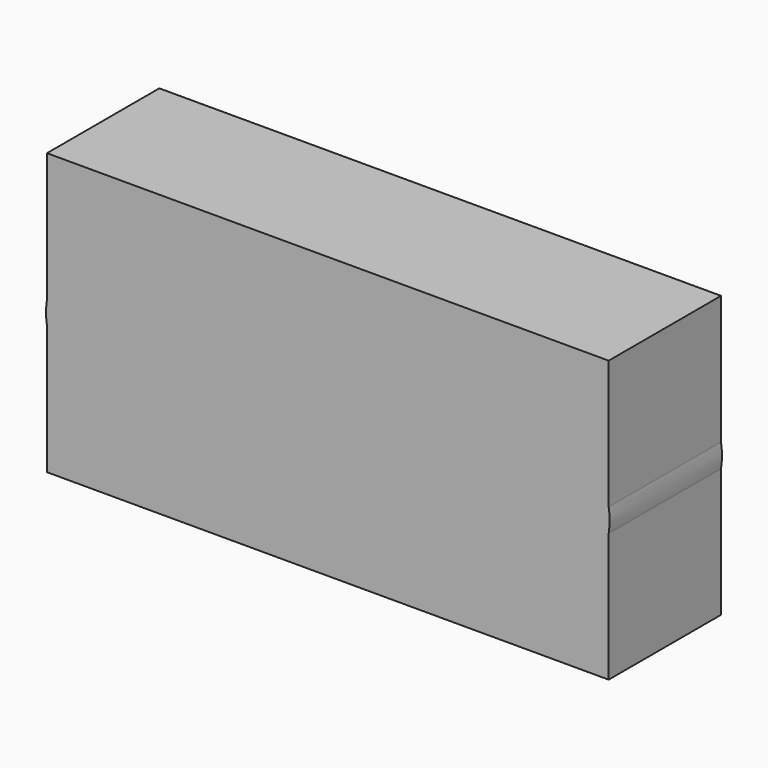
from build123d import *

# Parameters (mm, degrees)
F1_DEPTH = 25.4
F2_DEPTH = 25.4


with BuildPart() as f1:
    # F0 (on Front) → F1 (new body)
    with BuildSketch(Plane.XZ):
        with BuildLine():
            Line((50.8, 25.4), (-50.8, 25.4))
            Line((-50.8, 25.4), (-50.8, 2.111028816))
            add(Edge.make_bspline(
                [(50.8, 2.111028816), (46.8462238092, 25.0124750638), (0, 25.0124750638), (-46.8462238092, 25.0124750638), (-50.8, 2.111028816)],
                knots=[3.2260922119, 3.2260922119, 3.2260922119, 4.7123889804, 4.7123889804, 6.1986857488, 6.1986857488, 6.1986857488], degree=2, weights=[1, 0.7363419848, 1, 0.7363419848, 1]))
            Line((50.8, 2.111028816), (50.8, 25.4))
        make_face()
    extrude(amount=F1_DEPTH)


with BuildPart() as f1b:
    # F0 (on Front) → F1, piece 2 (new body)
    with BuildSketch(Plane.XZ):
        with BuildLine():
            add(Edge.make_bspline(
                [(-50.8, -2.111028816), (-46.8462238092, -25.0124750638), (0, -25.0124750638), (46.8462238092, -25.0124750638), (50.8, -2.111028816)],
                knots=[0.0844995584, 0.0844995584, 0.0844995584, 1.5707963268, 1.5707963268, 3.0570930952, 3.0570930952, 3.0570930952], degree=2, weights=[1, 0.7363419848, 1, 0.7363419848, 1]))
            Line((-50.8, -2.111028816), (-50.8, -25.4))
            Line((-50.8, -25.4), (50.8, -25.4))
            Line((50.8, -25.4), (50.8, -2.111028816))
        make_face()
    extrude(amount=F1_DEPTH)


with BuildPart() as f2:
    # F0 (on Front) → F2 (new body)
    with BuildSketch(Plane.XZ):
        with BuildLine():
            Line((50.8, 25.4), (-50.8, 25.4))
            Line((-50.8, 25.4), (-50.8, 2.111028816))
            add(Edge.make_bspline(
                [(50.8, 2.111028816), (46.8462238092, 25.0124750638), (0, 25.0124750638), (-46.8462238092, 25.0124750638), (-50.8, 2.111028816)],
                knots=[3.2260922119, 3.2260922119, 3.2260922119, 4.7123889804, 4.7123889804, 6.1986857488, 6.1986857488, 6.1986857488], degree=2, weights=[1, 0.7363419848, 1, 0.7363419848, 1]))
            Line((50.8, 2.111028816), (50.8, 25.4))
        make_face()
        with BuildLine():
            add(Edge.make_bspline(
                [(50.8, 2.111028816), (46.8462238092, 25.0124750638), (0, 25.0124750638), (-46.8462238092, 25.0124750638), (-50.8, 2.111028816)],
                knots=[3.2260922119, 3.2260922119, 3.2260922119, 4.7123889804, 4.7123889804, 6.1986857488, 6.1986857488, 6.1986857488], degree=2, weights=[1, 0.7363419848, 1, 0.7363419848, 1]))
            Line((-50.8, 2.111028816), (-50.8, -2.111028816))
            add(Edge.make_bspline(
                [(-50.8, -2.111028816), (-46.8462238092, -25.0124750638), (0, -25.0124750638), (46.8462238092, -25.0124750638), (50.8, -2.111028816)],
                knots=[0.0844995584, 0.0844995584, 0.0844995584, 1.5707963268, 1.5707963268, 3.0570930952, 3.0570930952, 3.0570930952], degree=2, weights=[1, 0.7363419848, 1, 0.7363419848, 1]))
            Line((50.8, -2.111028816), (50.8, 2.111028816))
        make_face()
        with BuildLine():
            Line((-50.8, -2.111028816), (-50.8, 2.111028816))
            add(Edge.make_bspline(
                [(-50.8, 2.111028816), (-50.9819015861, 1.0574007919), (-50.9819015861, 0)],
                knots=[6.1986857488, 6.1986857488, 6.1986857488, 6.2831853072, 6.2831853072, 6.2831853072], degree=2, weights=[1, 0.9991076108, 1]))
            add(Edge.make_bspline(
                [(-50.9819015861, 0), (-50.9819015861, -1.0574007919), (-50.8, -2.111028816)],
                knots=[0, 0, 0, 0.0844995584, 0.0844995584, 0.0844995584], degree=2, weights=[1, 0.9991076108, 1]))
        make_face()
        with BuildLine():
            add(Edge.make_bspline(
                [(50.8, -2.111028816), (51.1644545144, 0), (50.8, 2.111028816)],
                knots=[3.0570930952, 3.0570930952, 3.0570930952, 3.2260922119, 3.2260922119, 3.2260922119], degree=2, weights=[1, 0.9964320361, 1]))
            Line((50.8, 2.111028816), (50.8, -2.111028816))
        make_face()
        with BuildLine():
            add(Edge.make_bspline(
                [(-50.8, -2.111028816), (-46.8462238092, -25.0124750638), (0, -25.0124750638), (46.8462238092, -25.0124750638), (50.8, -2.111028816)],
                knots=[0.0844995584, 0.0844995584, 0.0844995584, 1.5707963268, 1.5707963268, 3.0570930952, 3.0570930952, 3.0570930952], degree=2, weights=[1, 0.7363419848, 1, 0.7363419848, 1]))
            Line((-50.8, -2.111028816), (-50.8, -25.4))
            Line((-50.8, -25.4), (50.8, -25.4))
            Line((50.8, -25.4), (50.8, -2.111028816))
        make_face()
    extrude(amount=F2_DEPTH)


solid = Compound([f1.part, f1b.part, f2.part])
